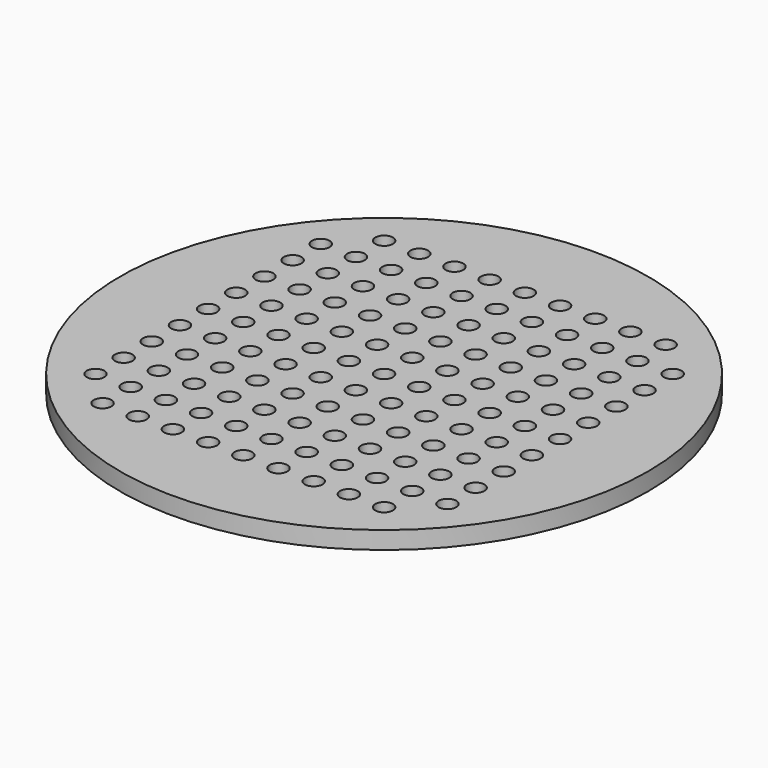
from build123d import *

# Parameters (mm, degrees)
F0_R     = 75
F0_R_2   = 2.5
F1_DEPTH = 5


with BuildPart() as f1:
    # F0 (on Top) → F1 (new body)
    with BuildSketch(Plane.XY):
        Circle(F0_R)
        with Locations((-40, -50)):
            Circle(F0_R_2, mode=Mode.SUBTRACT)
        with Locations((-50, -40)):
            Circle(F0_R_2, mode=Mode.SUBTRACT)
        with Locations((-40, -40)):
            Circle(F0_R_2, mode=Mode.SUBTRACT)
        with Locations((-30, -50)):
            Circle(F0_R_2, mode=Mode.SUBTRACT)
        with Locations((-20, -50)):
            Circle(F0_R_2, mode=Mode.SUBTRACT)
        with Locations((-30, -40)):
            Circle(F0_R_2, mode=Mode.SUBTRACT)
        with Locations((-20, -40)):
            Circle(F0_R_2, mode=Mode.SUBTRACT)
        with Locations((-10, -50)):
            Circle(F0_R_2, mode=Mode.SUBTRACT)
        with Locations((-10, -40)):
            Circle(F0_R_2, mode=Mode.SUBTRACT)
        with Locations((-50, -30)):
            Circle(F0_R_2, mode=Mode.SUBTRACT)
        with Locations((-40, -30)):
            Circle(F0_R_2, mode=Mode.SUBTRACT)
        with Locations((-50, -20)):
            Circle(F0_R_2, mode=Mode.SUBTRACT)
        with Locations((-40, -20)):
            Circle(F0_R_2, mode=Mode.SUBTRACT)
        with Locations((-50, -10)):
            Circle(F0_R_2, mode=Mode.SUBTRACT)
        with Locations((-40, -10)):
            Circle(F0_R_2, mode=Mode.SUBTRACT)
        with Locations((-30, -30)):
            Circle(F0_R_2, mode=Mode.SUBTRACT)
        with Locations((-20, -30)):
            Circle(F0_R_2, mode=Mode.SUBTRACT)
        with Locations((-30, -20)):
            Circle(F0_R_2, mode=Mode.SUBTRACT)
        with Locations((-20, -20)):
            Circle(F0_R_2, mode=Mode.SUBTRACT)
        with Locations((-10, -30)):
            Circle(F0_R_2, mode=Mode.SUBTRACT)
        with Locations((-10, -20)):
            Circle(F0_R_2, mode=Mode.SUBTRACT)
        with Locations((-30, -10)):
            Circle(F0_R_2, mode=Mode.SUBTRACT)
        with Locations((-20, -10)):
            Circle(F0_R_2, mode=Mode.SUBTRACT)
        with Locations((-10, -10)):
            Circle(F0_R_2, mode=Mode.SUBTRACT)
        with Locations((0, -50)):
            Circle(F0_R_2, mode=Mode.SUBTRACT)
        with Locations((10, -50)):
            Circle(F0_R_2, mode=Mode.SUBTRACT)
        with Locations((0, -40)):
            Circle(F0_R_2, mode=Mode.SUBTRACT)
        with Locations((10, -40)):
            Circle(F0_R_2, mode=Mode.SUBTRACT)
        with Locations((20, -50)):
            Circle(F0_R_2, mode=Mode.SUBTRACT)
        with Locations((30, -50)):
            Circle(F0_R_2, mode=Mode.SUBTRACT)
        with Locations((20, -40)):
            Circle(F0_R_2, mode=Mode.SUBTRACT)
        with Locations((30, -40)):
            Circle(F0_R_2, mode=Mode.SUBTRACT)
        with Locations((40, -50)):
            Circle(F0_R_2, mode=Mode.SUBTRACT)
        with Locations((40, -40)):
            Circle(F0_R_2, mode=Mode.SUBTRACT)
        with Locations((50, -40)):
            Circle(F0_R_2, mode=Mode.SUBTRACT)
        with Locations((0, -30)):
            Circle(F0_R_2, mode=Mode.SUBTRACT)
        with Locations((10, -30)):
            Circle(F0_R_2, mode=Mode.SUBTRACT)
        with Locations((0, -20)):
            Circle(F0_R_2, mode=Mode.SUBTRACT)
        with Locations((10, -20)):
            Circle(F0_R_2, mode=Mode.SUBTRACT)
        with Locations((20, -30)):
            Circle(F0_R_2, mode=Mode.SUBTRACT)
        with Locations((30, -30)):
            Circle(F0_R_2, mode=Mode.SUBTRACT)
        with Locations((20, -20)):
            Circle(F0_R_2, mode=Mode.SUBTRACT)
        with Locations((30, -20)):
            Circle(F0_R_2, mode=Mode.SUBTRACT)
        with Locations((0, -10)):
            Circle(F0_R_2, mode=Mode.SUBTRACT)
        with Locations((10, -10)):
            Circle(F0_R_2, mode=Mode.SUBTRACT)
        with Locations((20, -10)):
            Circle(F0_R_2, mode=Mode.SUBTRACT)
        with Locations((30, -10)):
            Circle(F0_R_2, mode=Mode.SUBTRACT)
        with Locations((40, -30)):
            Circle(F0_R_2, mode=Mode.SUBTRACT)
        with Locations((50, -30)):
            Circle(F0_R_2, mode=Mode.SUBTRACT)
        with Locations((40, -20)):
            Circle(F0_R_2, mode=Mode.SUBTRACT)
        with Locations((50, -20)):
            Circle(F0_R_2, mode=Mode.SUBTRACT)
        with Locations((40, -10)):
            Circle(F0_R_2, mode=Mode.SUBTRACT)
        with Locations((50, -10)):
            Circle(F0_R_2, mode=Mode.SUBTRACT)
        with Locations((-50, 0)):
            Circle(F0_R_2, mode=Mode.SUBTRACT)
        with Locations((-40, 0)):
            Circle(F0_R_2, mode=Mode.SUBTRACT)
        with Locations((-50, 10)):
            Circle(F0_R_2, mode=Mode.SUBTRACT)
        with Locations((-40, 10)):
            Circle(F0_R_2, mode=Mode.SUBTRACT)
        with Locations((-50, 20)):
            Circle(F0_R_2, mode=Mode.SUBTRACT)
        with Locations((-40, 20)):
            Circle(F0_R_2, mode=Mode.SUBTRACT)
        with Locations((-50, 30)):
            Circle(F0_R_2, mode=Mode.SUBTRACT)
        with Locations((-40, 30)):
            Circle(F0_R_2, mode=Mode.SUBTRACT)
        with Locations((-30, 0)):
            Circle(F0_R_2, mode=Mode.SUBTRACT)
        with Locations((-20, 0)):
            Circle(F0_R_2, mode=Mode.SUBTRACT)
        with Locations((-30, 10)):
            Circle(F0_R_2, mode=Mode.SUBTRACT)
        with Locations((-20, 10)):
            Circle(F0_R_2, mode=Mode.SUBTRACT)
        with Locations((-10, 0)):
            Circle(F0_R_2, mode=Mode.SUBTRACT)
        with Locations((-10, 10)):
            Circle(F0_R_2, mode=Mode.SUBTRACT)
        with Locations((-30, 20)):
            Circle(F0_R_2, mode=Mode.SUBTRACT)
        with Locations((-20, 20)):
            Circle(F0_R_2, mode=Mode.SUBTRACT)
        with Locations((-30, 30)):
            Circle(F0_R_2, mode=Mode.SUBTRACT)
        with Locations((-20, 30)):
            Circle(F0_R_2, mode=Mode.SUBTRACT)
        with Locations((-10, 20)):
            Circle(F0_R_2, mode=Mode.SUBTRACT)
        with Locations((-10, 30)):
            Circle(F0_R_2, mode=Mode.SUBTRACT)
        with Locations((-50, 40)):
            Circle(F0_R_2, mode=Mode.SUBTRACT)
        with Locations((-40, 40)):
            Circle(F0_R_2, mode=Mode.SUBTRACT)
        with Locations((-40, 50)):
            Circle(F0_R_2, mode=Mode.SUBTRACT)
        with Locations((-30, 40)):
            Circle(F0_R_2, mode=Mode.SUBTRACT)
        with Locations((-20, 40)):
            Circle(F0_R_2, mode=Mode.SUBTRACT)
        with Locations((-30, 50)):
            Circle(F0_R_2, mode=Mode.SUBTRACT)
        with Locations((-20, 50)):
            Circle(F0_R_2, mode=Mode.SUBTRACT)
        with Locations((-10, 40)):
            Circle(F0_R_2, mode=Mode.SUBTRACT)
        with Locations((-10, 50)):
            Circle(F0_R_2, mode=Mode.SUBTRACT)
        Circle(F0_R_2, mode=Mode.SUBTRACT)
        with Locations((10, 0)):
            Circle(F0_R_2, mode=Mode.SUBTRACT)
        with Locations((0, 10)):
            Circle(F0_R_2, mode=Mode.SUBTRACT)
        with Locations((10, 10)):
            Circle(F0_R_2, mode=Mode.SUBTRACT)
        with Locations((20, 0)):
            Circle(F0_R_2, mode=Mode.SUBTRACT)
        with Locations((30, 0)):
            Circle(F0_R_2, mode=Mode.SUBTRACT)
        with Locations((20, 10)):
            Circle(F0_R_2, mode=Mode.SUBTRACT)
        with Locations((30, 10)):
            Circle(F0_R_2, mode=Mode.SUBTRACT)
        with Locations((0, 20)):
            Circle(F0_R_2, mode=Mode.SUBTRACT)
        with Locations((10, 20)):
            Circle(F0_R_2, mode=Mode.SUBTRACT)
        with Locations((0, 30)):
            Circle(F0_R_2, mode=Mode.SUBTRACT)
        with Locations((10, 30)):
            Circle(F0_R_2, mode=Mode.SUBTRACT)
        with Locations((20, 20)):
            Circle(F0_R_2, mode=Mode.SUBTRACT)
        with Locations((30, 20)):
            Circle(F0_R_2, mode=Mode.SUBTRACT)
        with Locations((20, 30)):
            Circle(F0_R_2, mode=Mode.SUBTRACT)
        with Locations((30, 30)):
            Circle(F0_R_2, mode=Mode.SUBTRACT)
        with Locations((40, 0)):
            Circle(F0_R_2, mode=Mode.SUBTRACT)
        with Locations((50, 0)):
            Circle(F0_R_2, mode=Mode.SUBTRACT)
        with Locations((40, 10)):
            Circle(F0_R_2, mode=Mode.SUBTRACT)
        with Locations((50, 10)):
            Circle(F0_R_2, mode=Mode.SUBTRACT)
        with Locations((40, 20)):
            Circle(F0_R_2, mode=Mode.SUBTRACT)
        with Locations((50, 20)):
            Circle(F0_R_2, mode=Mode.SUBTRACT)
        with Locations((40, 30)):
            Circle(F0_R_2, mode=Mode.SUBTRACT)
        with Locations((50, 30)):
            Circle(F0_R_2, mode=Mode.SUBTRACT)
        with Locations((0, 40)):
            Circle(F0_R_2, mode=Mode.SUBTRACT)
        with Locations((10, 40)):
            Circle(F0_R_2, mode=Mode.SUBTRACT)
        with Locations((0, 50)):
            Circle(F0_R_2, mode=Mode.SUBTRACT)
        with Locations((10, 50)):
            Circle(F0_R_2, mode=Mode.SUBTRACT)
        with Locations((20, 40)):
            Circle(F0_R_2, mode=Mode.SUBTRACT)
        with Locations((30, 40)):
            Circle(F0_R_2, mode=Mode.SUBTRACT)
        with Locations((20, 50)):
            Circle(F0_R_2, mode=Mode.SUBTRACT)
        with Locations((30, 50)):
            Circle(F0_R_2, mode=Mode.SUBTRACT)
        with Locations((40, 40)):
            Circle(F0_R_2, mode=Mode.SUBTRACT)
        with Locations((50, 40)):
            Circle(F0_R_2, mode=Mode.SUBTRACT)
        with Locations((40, 50)):
            Circle(F0_R_2, mode=Mode.SUBTRACT)
    extrude(amount=F1_DEPTH)


solid = f1.part
